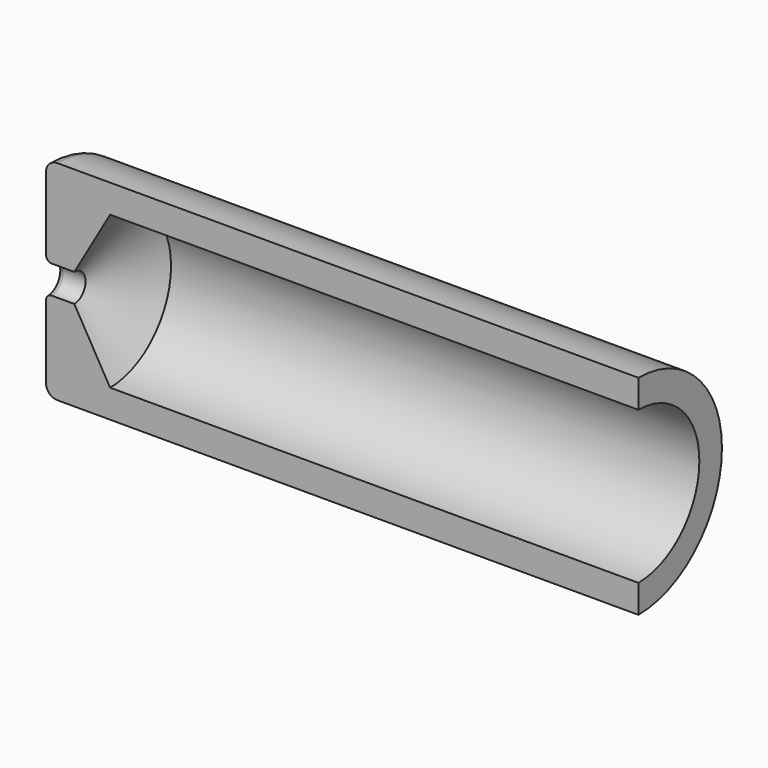
from build123d import *

# Parameters (mm, degrees)
F1_ANGLE = -180
F2_R     = 5.08
F3_R     = 2.54


with BuildPart() as f1:
    # F0 (on Front) → F1 (revolve)
    with BuildSketch(Plane.XZ):
        Polygon((133.35, 46.99), (-133.35, 46.99), (-133.35, 6.35), (-120.65, 6.35), (-104.518833, 34.29), (133.35, 34.29), align=None)
    revolve(axis=Axis((1.08064, 0, 0), (1, 0, 0)), revolution_arc=F1_ANGLE)

    # F2
    f2_edges = [f1.edges().sort_by_distance(p)[0] for p in [
        (-133.35, 46.99, 0),
    ]]
    fillet(f2_edges, radius=F2_R)

    # F3
    f3_edges = [f1.edges().sort_by_distance(p)[0] for p in [
        (-133.35, 6.35, 0),
    ]]
    fillet(f3_edges, radius=F3_R)


solid = f1.part
